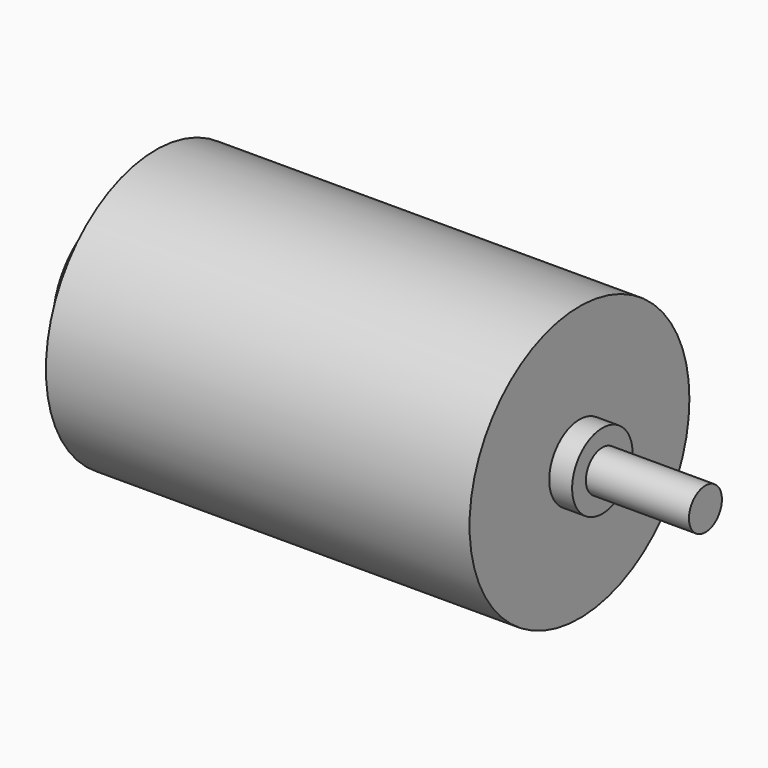
from build123d import *

# Parameters (mm, degrees)
SKETCH_R     = 12
PAD_DEPTH    = 37
SKETCH001_R  = 3.3
PAD001_DEPTH = 2
SKETCH002_R  = 6.5
PAD002_DEPTH = 3.8
SKETCH003_R  = 1.8
PAD003_DEPTH = 9


with BuildPart() as part:
    # Sketch → Pad (new body)
    with BuildSketch(Plane.YZ):
        Circle(SKETCH_R)
    extrude(amount=PAD_DEPTH)

    # Sketch001 (on Face3 of Pad) → Pad001 (join)
    with BuildSketch(Plane.YZ.offset(37)):
        Circle(SKETCH001_R)
    extrude(amount=PAD001_DEPTH)

    # Sketch002 (on Face2 of Pad001) → Pad002 (join)
    with BuildSketch(Plane(origin=(0, 0, 0), x_dir=(0, 1, 0), z_dir=(-1, 0, 0))):
        Circle(SKETCH002_R)
    extrude(amount=PAD002_DEPTH)

    # Sketch003 (on Face7 of Pad002) → Pad003 (join)
    with BuildSketch(Plane.YZ.offset(39)):
        Circle(SKETCH003_R)
    extrude(amount=PAD003_DEPTH)


solid = part.part
